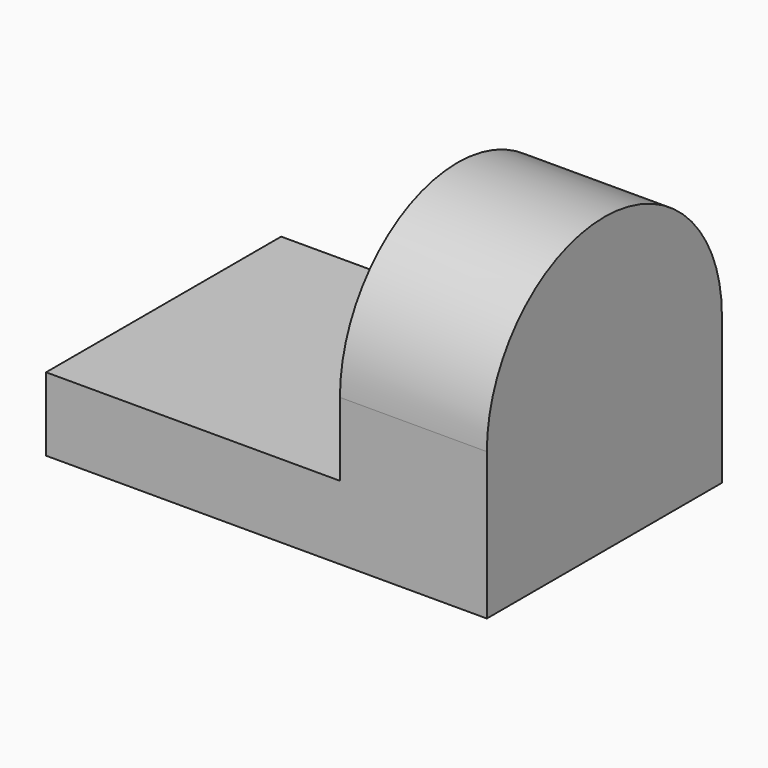
from build123d import *

# Parameters (mm, degrees)
F0_W     = 25.4
F0_H     = 6.35
F1_DEPTH = 38.1
F2_START = -12.7
F2_DEPTH = 25.4


with BuildPart() as f1:
    # F0 (on Right) → F1 (new body)
    with BuildSketch(Plane.YZ):
        with Locations((12.7, -3.175)):
            Rectangle(F0_W, F0_H)
        with BuildLine():
            Line((0, 6.35), (0, 0))
            Line((0, 0), (25.4, 0))
            Line((25.4, 0), (25.4, 6.35))
            ThreePointArc((25.4, 6.35), (12.7, 19.05), (0, 6.35))
        make_face()
    extrude(amount=-F1_DEPTH)

    # F0 (on Right) → F2 (cut)
    with BuildSketch(Plane.YZ.offset(F2_START)):
        with BuildLine():
            Line((0, 6.35), (0, 0))
            Line((0, 0), (25.4, 0))
            Line((25.4, 0), (25.4, 6.35))
            ThreePointArc((25.4, 6.35), (12.7, 19.05), (0, 6.35))
        make_face()
    extrude(amount=-F2_DEPTH, mode=Mode.SUBTRACT)


solid = f1.part
